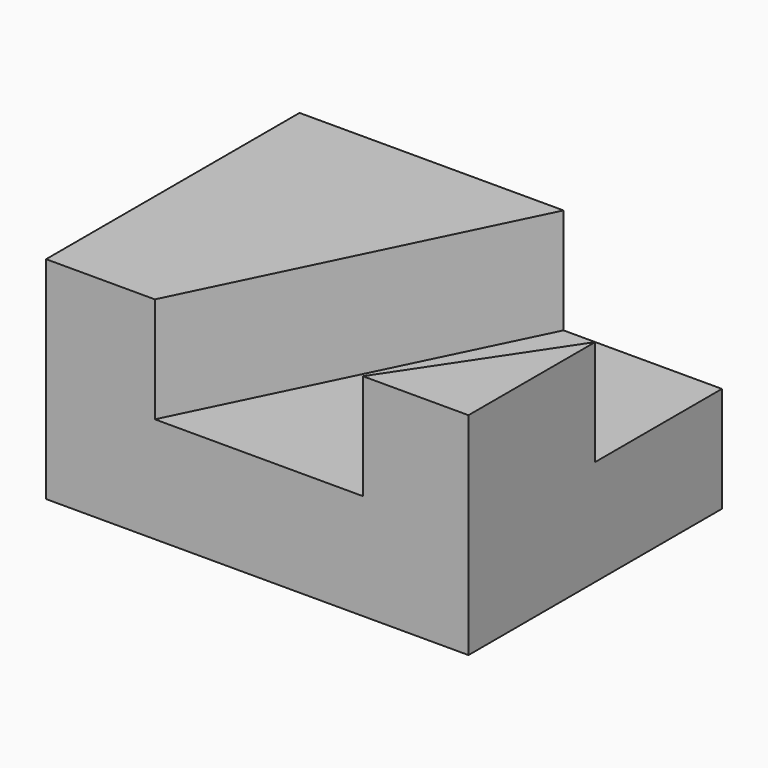
from build123d import *

# Parameters (mm, degrees)
F0_W     = 101.6
F0_H     = 25.4
F1_DEPTH = 76.2
F3_DEPTH = 25.4
F5_DEPTH = 25.4


with BuildPart() as f1:
    # F0 (on Front) → F1 (new body)
    with BuildSketch(Plane.XZ):
        with Locations((9.67671, -4.587205)):
            Rectangle(F0_W, F0_H)
    extrude(amount=F1_DEPTH)

    # F2 (on face) → F3 (join)
    with BuildSketch(Plane.XY.offset(8.112795)):
        Polygon((60.47671, -38.1), (35.07671, -76.2), (60.47671, -76.2), align=None)
    extrude(amount=F3_DEPTH)

    # F4 (on face) → F5 (join)
    with BuildSketch(Plane.XY.offset(8.112795)):
        Polygon((-41.12329, 0), (-41.12329, -76.2), (-14.954321, -76.2), (22.37671, 0), align=None)
    extrude(amount=F5_DEPTH)


solid = f1.part
